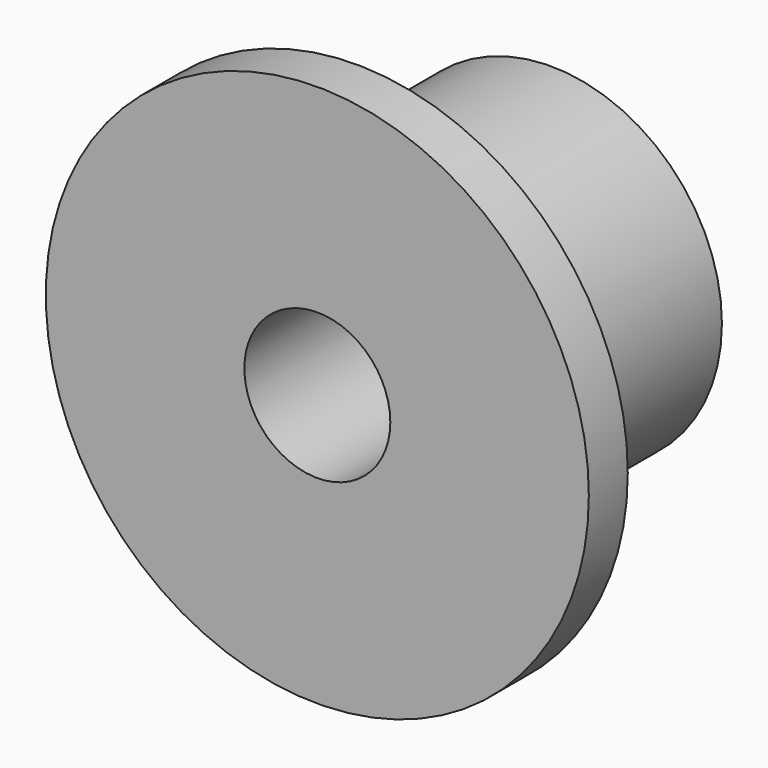
from build123d import *

# Parameters (mm, degrees)
F0_R     = 89.2937
F1_DEPTH = 127
F2_R     = 141.749676
F3_DEPTH = 25.4
F5_D     = 76.2


with BuildPart() as f1:
    # F0 (on Front) → F1 (new body)
    with BuildSketch(Plane.XZ):
        Circle(F0_R)
    extrude(amount=F1_DEPTH)

    # F2 (on face) → F3 (join)
    with BuildSketch(Plane.XZ.offset(127)):
        Circle(F2_R)
    extrude(amount=F3_DEPTH)

    # F5 (through all)
    with Locations(Plane(origin=(0, 0, 0), x_dir=(-1, 0, 0), z_dir=(0, 1, 0))):
        with Locations((0, 0)):
            Hole(F5_D / 2)


solid = f1.part
